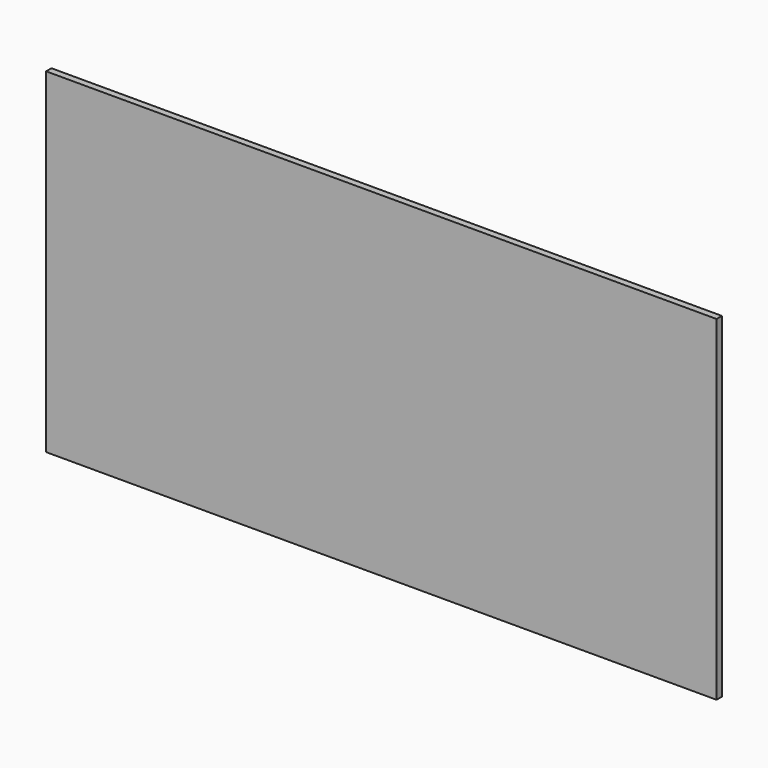
from build123d import *

# Parameters (mm, degrees)
EXTRUDE002_DEPTH       = 0.2
EXTRUDE001_DEPTH       = 0.2
SKETCH012_W            = 16.4
SKETCH012_H            = 7.6
SKETCH012_W_2          = 16
SKETCH012_H_2          = 2.8
SKETCH012_H_3          = 2
EXTRUDE003_DEPTH       = 0.2
SKETCH011_W            = 20
SKETCH011_H            = 10
EXTRUDE_DEPTH          = 0.2
CUT002_PLACEMENT_ANGLE = 180


with BuildPart() as extrude002:
    # Clone2D → Extrude002 (new body)
    with BuildSketch(Plane(origin=(-11, -6.1, -8.6), x_dir=(1, 0, 0), z_dir=(0, -1, 0))):
        with BuildLine():
            add(Edge.make_bspline(
                [(0.242548, 0), (0.242548, 1.589265)],
                knots=[0, 0, 1.589265, 1.589265], degree=1))
            add(Edge.make_bspline(
                [(0.547465, 0), (0.242548, 0)],
                knots=[0, 0, 0.203278, 0.203278], degree=1))
            add(Edge.make_bspline(
                [(0.547465, 1.349028), (0.547465, 0)],
                knots=[0, 0, 1.349028, 1.349028], degree=1))
            add(Edge.make_bspline(
                [(1.236885, 0), (0.547465, 1.349028)],
                knots=[0, 0, 1.425174, 1.425174], degree=1))
            add(Edge.make_bspline(
                [(1.51235, 0), (1.236885, 0)],
                knots=[0, 0, 0.183643, 0.183643], degree=1))
            add(Edge.make_bspline(
                [(2.21758, 1.330548), (1.51235, 0)],
                knots=[0, 0, 1.41117, 1.41117], degree=1))
            add(Edge.make_bspline(
                [(2.21758, 0), (2.21758, 1.330548)],
                knots=[0, 0, 1.330548, 1.330548], degree=1))
            add(Edge.make_bspline(
                [(2.522497, 0), (2.21758, 0)],
                knots=[0, 0, 0.203278, 0.203278], degree=1))
            add(Edge.make_bspline(
                [(2.522497, 1.589265), (2.522497, 0)],
                knots=[0, 0, 1.589265, 1.589265], degree=1))
            add(Edge.make_bspline(
                [(2.110382, 1.589265), (2.522497, 1.589265)],
                knots=[0, 0, 0.274743, 0.274743], degree=1))
            add(Edge.make_bspline(
                [(1.52621, 0.484807), (2.110382, 1.589265)],
                knots=[0, 0, 1.17111, 1.17111], degree=1))
            add(Edge.make_bspline(
                [(1.396382, 0.230348), (1.437962, 0.316972), (1.52621, 0.484807)],
                knots=[0, 0, 0, 1, 1, 1], degree=2))
            add(Edge.make_bspline(
                [(1.282038, 0.465316), (1.360433, 0.30831), (1.396382, 0.230348)],
                knots=[0, 0, 0, 1, 1, 1], degree=2))
            add(Edge.make_bspline(
                [(0.715516, 1.589265), (1.282038, 0.465316)],
                knots=[0, 0, 1.185709, 1.185709], degree=1))
            add(Edge.make_bspline(
                [(0.242548, 1.589265), (0.715516, 1.589265)],
                knots=[0, 0, 0.315312, 0.315312], degree=1))
        make_face()
        with BuildLine():
            add(Edge.make_bspline(
                [(4.144102, 0.619074), (4.144102, 0.808493)],
                knots=[0, 0, 0.189418, 0.189418], degree=1))
            add(Edge.make_bspline(
                [(4.837096, 0.619074), (4.144102, 0.619074)],
                knots=[0, 0, 0.461996, 0.461996], degree=1))
            add(Edge.make_bspline(
                [(4.837096, 0.325274), (4.837096, 0.619074)],
                knots=[0, 0, 0.2938, 0.2938], degree=1))
            add(Edge.make_bspline(
                [(4.543331, 0.21389), (4.737045, 0.266081), (4.837096, 0.325274)],
                knots=[0, 0, 0, 1, 1, 1], degree=2))
            add(Edge.make_bspline(
                [(4.146268, 0.161699), (4.349618, 0.161699), (4.543331, 0.21389)],
                knots=[0, 0, 0, 1, 1, 1], degree=2))
            add(Edge.make_bspline(
                [(3.703943, 0.231142), (3.912166, 0.161699), (4.146268, 0.161699)],
                knots=[0, 0, 0, 1, 1, 1], degree=2))
            add(Edge.make_bspline(
                [(3.38679, 0.443805), (3.49572, 0.300586), (3.703943, 0.231142)],
                knots=[0, 0, 0, 1, 1, 1], degree=2))
            add(Edge.make_bspline(
                [(3.27786, 0.79983), (3.27786, 0.587096), (3.38679, 0.443805)],
                knots=[0, 0, 0, 1, 1, 1], degree=2))
            add(Edge.make_bspline(
                [(3.368274, 1.119907), (3.27786, 0.972357), (3.27786, 0.79983)],
                knots=[0, 0, 0, 1, 1, 1], degree=2))
            add(Edge.make_bspline(
                [(3.517592, 1.277274), (3.421548, 1.205665), (3.368274, 1.119907)],
                knots=[0, 0, 0, 1, 1, 1], degree=2))
            add(Edge.make_bspline(
                [(3.77021, 1.392845), (3.613637, 1.348883), (3.517592, 1.277274)],
                knots=[0, 0, 0, 1, 1, 1], degree=2))
            add(Edge.make_bspline(
                [(4.141395, 1.436807), (3.926783, 1.436807), (3.77021, 1.392845)],
                knots=[0, 0, 0, 1, 1, 1], degree=2))
            add(Edge.make_bspline(
                [(4.467427, 1.394866), (4.320599, 1.436807), (4.141395, 1.436807)],
                knots=[0, 0, 0, 1, 1, 1], degree=2))
            add(Edge.make_bspline(
                [(4.693408, 1.283193), (4.614363, 1.352926), (4.467427, 1.394866)],
                knots=[0, 0, 0, 1, 1, 1], degree=2))
            add(Edge.make_bspline(
                [(4.825834, 1.091898), (4.772561, 1.213533), (4.693408, 1.283193)],
                knots=[0, 0, 0, 1, 1, 1], degree=2))
            add(Edge.make_bspline(
                [(5.112885, 1.143873), (4.825834, 1.091898)],
                knots=[0, 0, 0.1983, 0.1983], degree=1))
            add(Edge.make_bspline(
                [(4.93314, 1.4049), (5.051382, 1.304849), (5.112885, 1.143873)],
                knots=[0, 0, 0, 1, 1, 1], degree=2))
            add(Edge.make_bspline(
                [(4.606675, 1.560968), (4.814898, 1.504951), (4.93314, 1.4049)],
                knots=[0, 0, 0, 1, 1, 1], degree=2))
            add(Edge.make_bspline(
                [(4.14107, 1.616985), (4.398561, 1.616985), (4.606675, 1.560968)],
                knots=[0, 0, 0, 1, 1, 1], degree=2))
            add(Edge.make_bspline(
                [(3.514236, 1.519316), (3.786344, 1.616985), (4.14107, 1.616985)],
                knots=[0, 0, 0, 1, 1, 1], degree=2))
            add(Edge.make_bspline(
                [(3.09714, 1.220463), (3.242127, 1.42172), (3.514236, 1.519316)],
                knots=[0, 0, 0, 1, 1, 1], degree=2))
            add(Edge.make_bspline(
                [(2.952153, 0.787053), (2.952153, 1.019206), (3.09714, 1.220463)],
                knots=[0, 0, 0, 1, 1, 1], degree=2))
            add(Edge.make_bspline(
                [(3.097898, 0.362811), (2.952153, 0.552735), (2.952153, 0.787053)],
                knots=[0, 0, 0, 1, 1, 1], degree=2))
            add(Edge.make_bspline(
                [(3.52972, 0.07262), (3.243752, 0.17296), (3.097898, 0.362811)],
                knots=[0, 0, 0, 1, 1, 1], degree=2))
            add(Edge.make_bspline(
                [(4.165541, -0.02772), (3.815688, -0.02772), (3.52972, 0.07262)],
                knots=[0, 0, 0, 1, 1, 1], degree=2))
            add(Edge.make_bspline(
                [(4.670994, 0.034433), (4.424764, -0.02772), (4.165541, -0.02772)],
                knots=[0, 0, 0, 1, 1, 1], degree=2))
            add(Edge.make_bspline(
                [(5.148943, 0.220025), (4.917223, 0.096658), (4.670994, 0.034433)],
                knots=[0, 0, 0, 1, 1, 1], degree=2))
            add(Edge.make_bspline(
                [(5.148943, 0.808493), (5.148943, 0.220025)],
                knots=[0, 0, 0.588467, 0.588467], degree=1))
            add(Edge.make_bspline(
                [(4.144102, 0.808493), (5.148943, 0.808493)],
                knots=[0, 0, 0.669894, 0.669894], degree=1))
        make_face()
        with BuildLine():
            add(Edge.make_bspline(
                [(5.537019, 0.364977), (5.821146, 0.378837)],
                knots=[0, 0, 0.189925, 0.189925], degree=1))
            add(Edge.make_bspline(
                [(5.74914, 0.075291), (5.572643, 0.178374), (5.537019, 0.364977)],
                knots=[0, 0, 0, 1, 1, 1], degree=2))
            add(Edge.make_bspline(
                [(6.20435, -0.02772), (5.925745, -0.02772), (5.74914, 0.075291)],
                knots=[0, 0, 0, 1, 1, 1], degree=2))
            add(Edge.make_bspline(
                [(6.661834, 0.066773), (6.466713, -0.02772), (6.20435, -0.02772)],
                knots=[0, 0, 0, 1, 1, 1], degree=2))
            add(Edge.make_bspline(
                [(6.955815, 0.342166), (6.857064, 0.161265), (6.661834, 0.066773)],
                knots=[0, 0, 0, 1, 1, 1], degree=2))
            add(Edge.make_bspline(
                [(7.054675, 0.828272), (7.054675, 0.523066), (6.955815, 0.342166)],
                knots=[0, 0, 0, 1, 1, 1], degree=2))
            add(Edge.make_bspline(
                [(6.955166, 1.276408), (7.054675, 1.121639), (7.054675, 0.828272)],
                knots=[0, 0, 0, 1, 1, 1], degree=2))
            add(Edge.make_bspline(
                [(6.664, 1.514841), (6.855764, 1.431176), (6.955166, 1.276408)],
                knots=[0, 0, 0, 1, 1, 1], degree=2))
            add(Edge.make_bspline(
                [(6.241057, 1.598505), (6.472344, 1.598505), (6.664, 1.514841)],
                knots=[0, 0, 0, 1, 1, 1], degree=2))
            add(Edge.make_bspline(
                [(5.708102, 1.450883), (5.920873, 1.598505), (6.241057, 1.598505)],
                knots=[0, 0, 0, 1, 1, 1], degree=2))
            add(Edge.make_bspline(
                [(5.495439, 1.061363), (5.495439, 1.303333), (5.708102, 1.450883)],
                knots=[0, 0, 0, 1, 1, 1], degree=2))
            add(Edge.make_bspline(
                [(5.69814, 0.683754), (5.495439, 0.826972), (5.495439, 1.061363)],
                knots=[0, 0, 0, 1, 1, 1], degree=2))
            add(Edge.make_bspline(
                [(6.193631, 0.540535), (5.900841, 0.540535), (5.69814, 0.683754)],
                knots=[0, 0, 0, 1, 1, 1], degree=2))
            add(Edge.make_bspline(
                [(6.519338, 0.598429), (6.368936, 0.540535), (6.193631, 0.540535)],
                knots=[0, 0, 0, 1, 1, 1], degree=2))
            add(Edge.make_bspline(
                [(6.756688, 0.749516), (6.669847, 0.656395), (6.519338, 0.598429)],
                knots=[0, 0, 0, 1, 1, 1], degree=2))
            add(Edge.make_bspline(
                [(6.758312, 0.710535), (6.758312, 0.723529), (6.756688, 0.749516)],
                knots=[0, 0, 0, 1, 1, 1], degree=2))
            add(Edge.make_bspline(
                [(6.715, 0.471958), (6.758312, 0.589261), (6.758312, 0.710535)],
                knots=[0, 0, 0, 1, 1, 1], degree=2))
            add(Edge.make_bspline(
                [(6.609427, 0.285571), (6.671796, 0.354654), (6.715, 0.471958)],
                knots=[0, 0, 0, 1, 1, 1], degree=2))
            add(Edge.make_bspline(
                [(6.445166, 0.17527), (6.547057, 0.216561), (6.609427, 0.285571)],
                knots=[0, 0, 0, 1, 1, 1], degree=2))
            add(Edge.make_bspline(
                [(6.210414, 0.133979), (6.343382, 0.133979), (6.445166, 0.17527)],
                knots=[0, 0, 0, 1, 1, 1], degree=2))
            add(Edge.make_bspline(
                [(5.955631, 0.192017), (6.055032, 0.133979), (6.210414, 0.133979)],
                knots=[0, 0, 0, 1, 1, 1], degree=2))
            add(Edge.make_bspline(
                [(5.821146, 0.378837), (5.856338, 0.250055), (5.955631, 0.192017)],
                knots=[0, 0, 0, 1, 1, 1], degree=2))
        make_face()
        with BuildLine():
            add(Edge.make_bspline(
                [(6.728968, 1.070314), (6.728968, 1.23887), (6.597408, 1.337839)],
                knots=[0, 0, 0, 1, 1, 1], degree=2))
            add(Edge.make_bspline(
                [(6.598924, 0.806616), (6.728968, 0.901758), (6.728968, 1.070314)],
                knots=[0, 0, 0, 1, 1, 1], degree=2))
            add(Edge.make_bspline(
                [(6.266828, 0.711473), (6.468879, 0.711473), (6.598924, 0.806616)],
                knots=[0, 0, 0, 1, 1, 1], degree=2))
            add(Edge.make_bspline(
                [(5.928236, 0.806616), (6.063045, 0.711473), (6.266828, 0.711473)],
                knots=[0, 0, 0, 1, 1, 1], degree=2))
            add(Edge.make_bspline(
                [(5.793427, 1.054), (5.793427, 0.901758), (5.928236, 0.806616)],
                knots=[0, 0, 0, 1, 1, 1], degree=2))
            add(Edge.make_bspline(
                [(5.93549, 1.330187), (5.793427, 1.223639), (5.793427, 1.054)],
                knots=[0, 0, 0, 1, 1, 1], degree=2))
            add(Edge.make_bspline(
                [(6.274949, 1.436807), (6.077554, 1.436807), (5.93549, 1.330187)],
                knots=[0, 0, 0, 1, 1, 1], degree=2))
            add(Edge.make_bspline(
                [(6.597408, 1.337839), (6.465847, 1.436807), (6.274949, 1.436807)],
                knots=[0, 0, 0, 1, 1, 1], degree=2))
        make_face(mode=Mode.SUBTRACT)
        with BuildLine():
            add(Edge.make_bspline(
                [(7.345732, 0.784815), (7.345732, 1.067282), (7.433006, 1.240603)],
                knots=[0, 0, 0, 1, 1, 1], degree=2))
            add(Edge.make_bspline(
                [(7.582217, 0.135062), (7.345732, 0.336174), (7.345732, 0.784815)],
                knots=[0, 0, 0, 1, 1, 1], degree=2))
            add(Edge.make_bspline(
                [(8.12535, -0.02772), (7.779611, -0.02772), (7.582217, 0.135062)],
                knots=[0, 0, 0, 1, 1, 1], degree=2))
            add(Edge.make_bspline(
                [(8.559987, 0.06504), (8.38793, -0.02772), (8.12535, -0.02772)],
                knots=[0, 0, 0, 1, 1, 1], degree=2))
            add(Edge.make_bspline(
                [(8.818452, 0.331193), (8.732045, 0.157873), (8.559987, 0.06504)],
                knots=[0, 0, 0, 1, 1, 1], degree=2))
            add(Edge.make_bspline(
                [(8.904968, 0.784815), (8.904968, 0.504586), (8.818452, 0.331193)],
                knots=[0, 0, 0, 1, 1, 1], degree=2))
            add(Edge.make_bspline(
                [(8.851153, 1.16127), (8.904968, 1.02166), (8.904968, 0.784815)],
                knots=[0, 0, 0, 1, 1, 1], degree=2))
            add(Edge.make_bspline(
                [(8.704433, 1.398042), (8.797338, 1.300879), (8.851153, 1.16127)],
                knots=[0, 0, 0, 1, 1, 1], degree=2))
            add(Edge.make_bspline(
                [(8.464701, 1.546892), (8.611637, 1.495278), (8.704433, 1.398042)],
                knots=[0, 0, 0, 1, 1, 1], degree=2))
            add(Edge.make_bspline(
                [(8.12535, 1.598505), (8.317764, 1.598505), (8.464701, 1.546892)],
                knots=[0, 0, 0, 1, 1, 1], degree=2))
            add(Edge.make_bspline(
                [(7.692338, 1.506251), (7.864395, 1.598505), (8.12535, 1.598505)],
                knots=[0, 0, 0, 1, 1, 1], degree=2))
            add(Edge.make_bspline(
                [(7.433006, 1.240603), (7.52028, 1.413996), (7.692338, 1.506251)],
                knots=[0, 0, 0, 1, 1, 1], degree=2))
        make_face()
        with BuildLine():
            add(Edge.make_bspline(
                [(7.64372, 0.785393), (7.64372, 0.39118), (7.782643, 0.262544)],
                knots=[0, 0, 0, 1, 1, 1], degree=2))
            add(Edge.make_bspline(
                [(7.794879, 1.322824), (7.64372, 1.177295), (7.64372, 0.785393)],
                knots=[0, 0, 0, 1, 1, 1], degree=2))
            add(Edge.make_bspline(
                [(8.122102, 1.436807), (7.91821, 1.436807), (7.794879, 1.322824)],
                knots=[0, 0, 0, 1, 1, 1], degree=2))
            add(Edge.make_bspline(
                [(8.468924, 1.307592), (8.330866, 1.436807), (8.122102, 1.436807)],
                knots=[0, 0, 0, 1, 1, 1], degree=2))
            add(Edge.make_bspline(
                [(8.606981, 0.785393), (8.606981, 1.178378), (8.468924, 1.307592)],
                knots=[0, 0, 0, 1, 1, 1], degree=2))
            add(Edge.make_bspline(
                [(8.468057, 0.263121), (8.606981, 0.392263), (8.606981, 0.785393)],
                knots=[0, 0, 0, 1, 1, 1], degree=2))
            add(Edge.make_bspline(
                [(8.12535, 0.133979), (8.329134, 0.133979), (8.468057, 0.263121)],
                knots=[0, 0, 0, 1, 1, 1], degree=2))
            add(Edge.make_bspline(
                [(7.782643, 0.262544), (7.921567, 0.133979), (8.12535, 0.133979)],
                knots=[0, 0, 0, 1, 1, 1], degree=2))
        make_face(mode=Mode.SUBTRACT)
        with BuildLine():
            add(Edge.make_bspline(
                [(9.209885, 0.508195), (9.507873, 0.526675)],
                knots=[0, 0, 0.199516, 0.199516], degree=1))
            add(Edge.make_bspline(
                [(9.33993, 0.22349), (9.216382, 0.349384), (9.209885, 0.508195)],
                knots=[0, 0, 0, 1, 1, 1], degree=2))
            add(Edge.make_bspline(
                [(9.680688, 0.034938), (9.463478, 0.097597), (9.33993, 0.22349)],
                knots=[0, 0, 0, 1, 1, 1], degree=2))
            add(Edge.make_bspline(
                [(10.219382, -0.02772), (9.898006, -0.02772), (9.680688, 0.034938)],
                knots=[0, 0, 0, 1, 1, 1], degree=2))
            add(Edge.make_bspline(
                [(10.675675, 0.034505), (10.472975, -0.02772), (10.219382, -0.02772)],
                knots=[0, 0, 0, 1, 1, 1], degree=2))
            add(Edge.make_bspline(
                [(10.986548, 0.208837), (10.878376, 0.096803), (10.675675, 0.034505)],
                knots=[0, 0, 0, 1, 1, 1], degree=2))
            add(Edge.make_bspline(
                [(11.094828, 0.447558), (11.094828, 0.32087), (10.986548, 0.208837)],
                knots=[0, 0, 0, 1, 1, 1], degree=2))
            add(Edge.make_bspline(
                [(10.995968, 0.673287), (11.094828, 0.575329), (11.094828, 0.447558)],
                knots=[0, 0, 0, 1, 1, 1], degree=2))
            add(Edge.make_bspline(
                [(10.689535, 0.83513), (10.897108, 0.771244), (10.995968, 0.673287)],
                knots=[0, 0, 0, 1, 1, 1], degree=2))
            add(Edge.make_bspline(
                [(10.166758, 0.936263), (10.54693, 0.878442), (10.689535, 0.83513)],
                knots=[0, 0, 0, 1, 1, 1], degree=2))
            add(Edge.make_bspline(
                [(9.696497, 1.049163), (9.786586, 0.994085), (10.166758, 0.936263)],
                knots=[0, 0, 0, 1, 1, 1], degree=2))
            add(Edge.make_bspline(
                [(9.604892, 1.189711), (9.604892, 1.104314), (9.696497, 1.049163)],
                knots=[0, 0, 0, 1, 1, 1], degree=2))
            add(Edge.make_bspline(
                [(9.734287, 1.357834), (9.604892, 1.288102), (9.604892, 1.189711)],
                knots=[0, 0, 0, 1, 1, 1], degree=2))
            add(Edge.make_bspline(
                [(10.146726, 1.427567), (9.863682, 1.427567), (9.734287, 1.357834)],
                knots=[0, 0, 0, 1, 1, 1], degree=2))
            add(Edge.make_bspline(
                [(10.557433, 1.351699), (10.418401, 1.427567), (10.146726, 1.427567)],
                knots=[0, 0, 0, 1, 1, 1], degree=2))
            add(Edge.make_bspline(
                [(10.720611, 1.12727), (10.696465, 1.27583), (10.557433, 1.351699)],
                knots=[0, 0, 0, 1, 1, 1], degree=2))
            add(Edge.make_bspline(
                [(11.025529, 1.14113), (10.720611, 1.12727)],
                knots=[0, 0, 0.20375, 0.20375], degree=1))
            add(Edge.make_bspline(
                [(10.909019, 1.392051), (11.017408, 1.281244), (11.025529, 1.14113)],
                knots=[0, 0, 0, 1, 1, 1], degree=2))
            add(Edge.make_bspline(
                [(10.599338, 1.559958), (10.800739, 1.50293), (10.909019, 1.392051)],
                knots=[0, 0, 0, 1, 1, 1], degree=2))
            add(Edge.make_bspline(
                [(10.13449, 1.616985), (10.398045, 1.616985), (10.599338, 1.559958)],
                knots=[0, 0, 0, 1, 1, 1], degree=2))
            add(Edge.make_bspline(
                [(9.69942, 1.562628), (9.895083, 1.616985), (10.13449, 1.616985)],
                knots=[0, 0, 0, 1, 1, 1], degree=2))
            add(Edge.make_bspline(
                [(9.401866, 1.403384), (9.503758, 1.508272), (9.69942, 1.562628)],
                knots=[0, 0, 0, 1, 1, 1], degree=2))
            add(Edge.make_bspline(
                [(9.299975, 1.177873), (9.299975, 1.298497), (9.401866, 1.403384)],
                knots=[0, 0, 0, 1, 1, 1], degree=2))
            add(Edge.make_bspline(
                [(9.383459, 0.979503), (9.299975, 1.068076), (9.299975, 1.177873)],
                knots=[0, 0, 0, 1, 1, 1], degree=2))
            add(Edge.make_bspline(
                [(9.637376, 0.831087), (9.467051, 0.89093), (9.383459, 0.979503)],
                knots=[0, 0, 0, 1, 1, 1], degree=2))
            add(Edge.make_bspline(
                [(10.093561, 0.731902), (9.768828, 0.784382), (9.637376, 0.831087)],
                knots=[0, 0, 0, 1, 1, 1], degree=2))
            add(Edge.make_bspline(
                [(10.513255, 0.654662), (10.418401, 0.679495), (10.093561, 0.731902)],
                knots=[0, 0, 0, 1, 1, 1], degree=2))
            add(Edge.make_bspline(
                [(10.725484, 0.561108), (10.661166, 0.616837), (10.513255, 0.654662)],
                knots=[0, 0, 0, 1, 1, 1], degree=2))
            add(Edge.make_bspline(
                [(10.789911, 0.430739), (10.789911, 0.50538), (10.725484, 0.561108)],
                knots=[0, 0, 0, 1, 1, 1], degree=2))
            add(Edge.make_bspline(
                [(10.723102, 0.295028), (10.789911, 0.35718), (10.789911, 0.430739)],
                knots=[0, 0, 0, 1, 1, 1], degree=2))
            add(Edge.make_bspline(
                [(10.519643, 0.197287), (10.656401, 0.232947), (10.723102, 0.295028)],
                knots=[0, 0, 0, 1, 1, 1], degree=2))
            add(Edge.make_bspline(
                [(10.204439, 0.161699), (10.382994, 0.161699), (10.519643, 0.197287)],
                knots=[0, 0, 0, 1, 1, 1], degree=2))
            add(Edge.make_bspline(
                [(9.842459, 0.20862), (10.003363, 0.161699), (10.204439, 0.161699)],
                knots=[0, 0, 0, 1, 1, 1], degree=2))
            add(Edge.make_bspline(
                [(9.605108, 0.331771), (9.681554, 0.255614), (9.842459, 0.20862)],
                knots=[0, 0, 0, 1, 1, 1], degree=2))
            add(Edge.make_bspline(
                [(9.507873, 0.526675), (9.528771, 0.407928), (9.605108, 0.331771)],
                knots=[0, 0, 0, 1, 1, 1], degree=2))
        make_face()
    extrude(amount=EXTRUDE002_DEPTH)


with BuildPart() as extrude002_1:
    # Extrude002 placement: moved
    add(extrude002.part.moved(Location((0, 0, -0.4))))


with BuildPart() as compound:
    # Clone2D001 → Extrude001 (new body)
    with BuildSketch(Plane(origin=(-11.64, -6.1, -11.2), x_dir=(1, 0, 0), z_dir=(0, -1, 0))):
        with BuildLine():
            add(Edge.make_bspline(
                [(0.17121, 0), (0.17121, 0.934862)],
                knots=[0, 0, 0.934862, 0.934862], degree=1))
            add(Edge.make_bspline(
                [(0.386446, 0), (0.17121, 0)],
                knots=[0, 0, 0.119575, 0.119575], degree=1))
            add(Edge.make_bspline(
                [(0.386446, 0.793546), (0.386446, 0)],
                knots=[0, 0, 0.793546, 0.793546], degree=1))
            add(Edge.make_bspline(
                [(0.873096, 0), (0.386446, 0.793546)],
                knots=[0, 0, 0.838337, 0.838337], degree=1))
            add(Edge.make_bspline(
                [(1.067541, 0), (0.873096, 0)],
                knots=[0, 0, 0.108025, 0.108025], degree=1))
            add(Edge.make_bspline(
                [(1.56535, 0.782675), (1.067541, 0)],
                knots=[0, 0, 0.8301, 0.8301], degree=1))
            add(Edge.make_bspline(
                [(1.56535, 0), (1.56535, 0.782675)],
                knots=[0, 0, 0.782675, 0.782675], degree=1))
            add(Edge.make_bspline(
                [(1.780586, 0), (1.56535, 0)],
                knots=[0, 0, 0.119575, 0.119575], degree=1))
            add(Edge.make_bspline(
                [(1.780586, 0.934862), (1.780586, 0)],
                knots=[0, 0, 0.934862, 0.934862], degree=1))
            add(Edge.make_bspline(
                [(1.489682, 0.934862), (1.780586, 0.934862)],
                knots=[0, 0, 0.161614, 0.161614], degree=1))
            add(Edge.make_bspline(
                [(1.077325, 0.28518), (1.489682, 0.934862)],
                knots=[0, 0, 0.688888, 0.688888], degree=1))
            add(Edge.make_bspline(
                [(0.985682, 0.135499), (1.015032, 0.186454), (1.077325, 0.28518)],
                knots=[0, 0, 0, 1, 1, 1], degree=2))
            add(Edge.make_bspline(
                [(0.904968, 0.273715), (0.960306, 0.181359), (0.985682, 0.135499)],
                knots=[0, 0, 0, 1, 1, 1], degree=2))
            add(Edge.make_bspline(
                [(0.50507, 0.934862), (0.904968, 0.273715)],
                knots=[0, 0, 0.697476, 0.697476], degree=1))
            add(Edge.make_bspline(
                [(0.17121, 0.934862), (0.50507, 0.934862)],
                knots=[0, 0, 0.185478, 0.185478], degree=1))
        make_face()
        with BuildLine():
            add(Edge.make_bspline(
                [(2.118115, 0), (2.118115, 0.676688)],
                knots=[0, 0, 0.676688, 0.676688], degree=1))
            add(Edge.make_bspline(
                [(2.323567, 0), (2.118115, 0)],
                knots=[0, 0, 0.11414, 0.11414], degree=1))
            add(Edge.make_bspline(
                [(2.323567, 0.676688), (2.323567, 0)],
                knots=[0, 0, 0.676688, 0.676688], degree=1))
            add(Edge.make_bspline(
                [(2.118115, 0.676688), (2.323567, 0.676688)],
                knots=[0, 0, 0.11414, 0.11414], degree=1))
        make_face()
        with BuildLine():
            add(Edge.make_bspline(
                [(2.118115, 0.804416), (2.118115, 0.934862)],
                knots=[0, 0, 0.130446, 0.130446], degree=1))
            add(Edge.make_bspline(
                [(2.323567, 0.804416), (2.118115, 0.804416)],
                knots=[0, 0, 0.11414, 0.11414], degree=1))
            add(Edge.make_bspline(
                [(2.323567, 0.934862), (2.323567, 0.804416)],
                knots=[0, 0, 0.130446, 0.130446], degree=1))
            add(Edge.make_bspline(
                [(2.118115, 0.934862), (2.323567, 0.934862)],
                knots=[0, 0, 0.11414, 0.11414], degree=1))
        make_face()
        with BuildLine():
            add(Edge.make_bspline(
                [(3.433987, 0.247304), (3.634548, 0.230998)],
                knots=[0, 0, 0.112609, 0.112609], degree=1))
            add(Edge.make_bspline(
                [(3.329962, 0.122166), (3.412051, 0.162845), (3.433987, 0.247304)],
                knots=[0, 0, 0, 1, 1, 1], degree=2))
            add(Edge.make_bspline(
                [(3.125427, 0.081529), (3.247949, 0.081529), (3.329962, 0.122166)],
                knots=[0, 0, 0, 1, 1, 1], degree=2))
            add(Edge.make_bspline(
                [(2.878166, 0.142718), (2.972943, 0.081529), (3.125427, 0.081529)],
                knots=[0, 0, 0, 1, 1, 1], degree=2))
            add(Edge.make_bspline(
                [(2.783389, 0.338981), (2.783389, 0.203949), (2.878166, 0.142718)],
                knots=[0, 0, 0, 1, 1, 1], degree=2))
            add(Edge.make_bspline(
                [(2.881223, 0.533631), (2.783389, 0.472102), (2.783389, 0.338981)],
                knots=[0, 0, 0, 1, 1, 1], degree=2))
            add(Edge.make_bspline(
                [(3.135745, 0.595159), (2.979134, 0.595159), (2.881223, 0.533631)],
                knots=[0, 0, 0, 1, 1, 1], degree=2))
            add(Edge.make_bspline(
                [(3.312459, 0.561019), (3.239389, 0.595159), (3.135745, 0.595159)],
                knots=[0, 0, 0, 1, 1, 1], degree=2))
            add(Edge.make_bspline(
                [(3.41442, 0.459278), (3.385605, 0.526921), (3.312459, 0.561019)],
                knots=[0, 0, 0, 1, 1, 1], degree=2))
            add(Edge.make_bspline(
                [(3.614981, 0.475584), (3.41442, 0.459278)],
                knots=[0, 0, 0.112609, 0.112609], degree=1))
            add(Edge.make_bspline(
                [(3.453172, 0.634352), (3.579439, 0.578471), (3.614981, 0.475584)],
                knots=[0, 0, 0, 1, 1, 1], degree=2))
            add(Edge.make_bspline(
                [(3.128408, 0.690276), (3.326981, 0.690276), (3.453172, 0.634352)],
                knots=[0, 0, 0, 1, 1, 1], degree=2))
            add(Edge.make_bspline(
                [(2.83758, 0.649384), (2.971261, 0.690276), (3.128408, 0.690276)],
                knots=[0, 0, 0, 1, 1, 1], degree=2))
            add(Edge.make_bspline(
                [(2.638471, 0.526667), (2.703898, 0.608493), (2.83758, 0.649384)],
                knots=[0, 0, 0, 1, 1, 1], degree=2))
            add(Edge.make_bspline(
                [(2.573045, 0.335796), (2.573045, 0.444883), (2.638471, 0.526667)],
                knots=[0, 0, 0, 1, 1, 1], degree=2))
            add(Edge.make_bspline(
                [(2.72507, 0.076773), (2.573045, 0.167134), (2.573045, 0.335796)],
                knots=[0, 0, 0, 1, 1, 1], degree=2))
            add(Edge.make_bspline(
                [(3.127338, -0.013588), (2.877172, -0.013588), (2.72507, 0.076773)],
                knots=[0, 0, 0, 1, 1, 1], degree=2))
            add(Edge.make_bspline(
                [(3.464102, 0.051295), (3.326981, -0.013588), (3.127338, -0.013588)],
                knots=[0, 0, 0, 1, 1, 1], degree=2))
            add(Edge.make_bspline(
                [(3.634548, 0.230998), (3.601299, 0.116221), (3.464102, 0.051295)],
                knots=[0, 0, 0, 1, 1, 1], degree=2))
        make_face()
        with BuildLine():
            add(Edge.make_bspline(
                [(3.805758, 0), (3.805758, 0.676688)],
                knots=[0, 0, 0.676688, 0.676688], degree=1))
            add(Edge.make_bspline(
                [(4.01121, 0), (3.805758, 0)],
                knots=[0, 0, 0.11414, 0.11414], degree=1))
            add(Edge.make_bspline(
                [(4.01121, 0.352569), (4.01121, 0)],
                knots=[0, 0, 0.352569, 0.352569], degree=1))
            add(Edge.make_bspline(
                [(4.045758, 0.485732), (4.01121, 0.424883), (4.01121, 0.352569)],
                knots=[0, 0, 0, 1, 1, 1], degree=2))
            add(Edge.make_bspline(
                [(4.122268, 0.548195), (4.068841, 0.52569), (4.045758, 0.485732)],
                knots=[0, 0, 0, 1, 1, 1], degree=2))
            add(Edge.make_bspline(
                [(4.242803, 0.570701), (4.175694, 0.570701), (4.122268, 0.548195)],
                knots=[0, 0, 0, 1, 1, 1], degree=2))
            add(Edge.make_bspline(
                [(4.392841, 0.549087), (4.317783, 0.570701), (4.242803, 0.570701)],
                knots=[0, 0, 0, 1, 1, 1], degree=2))
            add(Edge.make_bspline(
                [(4.46614, 0.654437), (4.392841, 0.549087)],
                knots=[0, 0, 0.112947, 0.112947], degree=1))
            add(Edge.make_bspline(
                [(4.25465, 0.690276), (4.358675, 0.690276), (4.46614, 0.654437)],
                knots=[0, 0, 0, 1, 1, 1], degree=2))
            add(Edge.make_bspline(
                [(4.122497, 0.667134), (4.182573, 0.690276), (4.25465, 0.690276)],
                knots=[0, 0, 0, 1, 1, 1], degree=2))
            add(Edge.make_bspline(
                [(3.991643, 0.571338), (4.062497, 0.643992), (4.122497, 0.667134)],
                knots=[0, 0, 0, 1, 1, 1], degree=2))
            add(Edge.make_bspline(
                [(3.991643, 0.676688), (3.991643, 0.571338)],
                knots=[0, 0, 0.10535, 0.10535], degree=1))
            add(Edge.make_bspline(
                [(3.805758, 0.676688), (3.991643, 0.676688)],
                knots=[0, 0, 0.10327, 0.10327], degree=1))
        make_face()
        with BuildLine():
            add(Edge.make_bspline(
                [(4.515057, 0.338344), (4.515057, 0.525393), (4.70293, 0.615456)],
                knots=[0, 0, 0, 1, 1, 1], degree=2))
            add(Edge.make_bspline(
                [(4.67251, 0.07707), (4.515057, 0.167771), (4.515057, 0.338344)],
                knots=[0, 0, 0, 1, 1, 1], degree=2))
            add(Edge.make_bspline(
                [(5.085478, -0.013588), (4.830038, -0.013588), (4.67251, 0.07707)],
                knots=[0, 0, 0, 1, 1, 1], degree=2))
            add(Edge.make_bspline(
                [(5.379363, 0.027601), (5.244764, -0.013588), (5.085478, -0.013588)],
                knots=[0, 0, 0, 1, 1, 1], degree=2))
            add(Edge.make_bspline(
                [(5.584357, 0.143355), (5.513962, 0.068832), (5.379363, 0.027601)],
                knots=[0, 0, 0, 1, 1, 1], degree=2))
            add(Edge.make_bspline(
                [(5.654828, 0.347856), (5.654828, 0.217877), (5.584357, 0.143355)],
                knots=[0, 0, 0, 1, 1, 1], degree=2))
            add(Edge.make_bspline(
                [(5.495618, 0.599278), (5.654828, 0.50828), (5.654828, 0.347856)],
                knots=[0, 0, 0, 1, 1, 1], degree=2))
            add(Edge.make_bspline(
                [(5.085478, 0.690276), (5.336408, 0.690276), (5.495618, 0.599278)],
                knots=[0, 0, 0, 1, 1, 1], degree=2))
            add(Edge.make_bspline(
                [(4.70293, 0.615456), (4.859847, 0.690276), (5.085478, 0.690276)],
                knots=[0, 0, 0, 1, 1, 1], degree=2))
        make_face()
        with BuildLine():
            add(Edge.make_bspline(
                [(4.725401, 0.338641), (4.725401, 0.209766), (4.827745, 0.145648)],
                knots=[0, 0, 0, 1, 1, 1], degree=2))
            add(Edge.make_bspline(
                [(4.827745, 0.531338), (4.725401, 0.467558), (4.725401, 0.338641)],
                knots=[0, 0, 0, 1, 1, 1], degree=2))
            add(Edge.make_bspline(
                [(5.085554, 0.595159), (4.930166, 0.595159), (4.827745, 0.531338)],
                knots=[0, 0, 0, 1, 1, 1], degree=2))
            add(Edge.make_bspline(
                [(5.341529, 0.53104), (5.238573, 0.595159), (5.085554, 0.595159)],
                knots=[0, 0, 0, 1, 1, 1], degree=2))
            add(Edge.make_bspline(
                [(5.444484, 0.342463), (5.444484, 0.466921), (5.341529, 0.53104)],
                knots=[0, 0, 0, 1, 1, 1], degree=2))
            add(Edge.make_bspline(
                [(5.342064, 0.145945), (5.444484, 0.210403), (5.444484, 0.342463)],
                knots=[0, 0, 0, 1, 1, 1], degree=2))
            add(Edge.make_bspline(
                [(5.085554, 0.081529), (5.23972, 0.081529), (5.342064, 0.145945)],
                knots=[0, 0, 0, 1, 1, 1], degree=2))
            add(Edge.make_bspline(
                [(4.827745, 0.145648), (4.930166, 0.081529), (5.085554, 0.081529)],
                knots=[0, 0, 0, 1, 1, 1], degree=2))
        make_face(mode=Mode.SUBTRACT)
        with BuildLine():
            add(Edge.make_bspline(
                [(6.471745, 0.203822), (6.677197, 0.220127)],
                knots=[0, 0, 0.115299, 0.115299], degree=1))
            add(Edge.make_bspline(
                [(6.629962, 0.041231), (6.505987, 0.096093), (6.471745, 0.203822)],
                knots=[0, 0, 0, 1, 1, 1], degree=2))
            add(Edge.make_bspline(
                [(6.99042, -0.013588), (6.753936, -0.013588), (6.629962, 0.041231)],
                knots=[0, 0, 0, 1, 1, 1], degree=2))
            add(Edge.make_bspline(
                [(7.246318, 0.014013), (7.133274, -0.013588), (6.99042, -0.013588)],
                knots=[0, 0, 0, 1, 1, 1], degree=2))
            add(Edge.make_bspline(
                [(7.419439, 0.092144), (7.359439, 0.041656), (7.246318, 0.014013)],
                knots=[0, 0, 0, 1, 1, 1], degree=2))
            add(Edge.make_bspline(
                [(7.479439, 0.199745), (7.479439, 0.142633), (7.419439, 0.092144)],
                knots=[0, 0, 0, 1, 1, 1], degree=2))
            add(Edge.make_bspline(
                [(7.430675, 0.297537), (7.479439, 0.258174), (7.479439, 0.199745)],
                knots=[0, 0, 0, 1, 1, 1], degree=2))
            add(Edge.make_bspline(
                [(7.296382, 0.357537), (7.381987, 0.3369), (7.430675, 0.297537)],
                knots=[0, 0, 0, 1, 1, 1], degree=2))
            add(Edge.make_bspline(
                [(6.992408, 0.410573), (7.210854, 0.378174), (7.296382, 0.357537)],
                knots=[0, 0, 0, 1, 1, 1], degree=2))
            add(Edge.make_bspline(
                [(6.810573, 0.439448), (6.841452, 0.433163), (6.992408, 0.410573)],
                knots=[0, 0, 0, 1, 1, 1], degree=2))
            add(Edge.make_bspline(
                [(6.731694, 0.469597), (6.756841, 0.45138), (6.810573, 0.439448)],
                knots=[0, 0, 0, 1, 1, 1], degree=2))
            add(Edge.make_bspline(
                [(6.706548, 0.50913), (6.706548, 0.487176), (6.731694, 0.469597)],
                knots=[0, 0, 0, 1, 1, 1], degree=2))
            add(Edge.make_bspline(
                [(6.767159, 0.569427), (6.706548, 0.543694), (6.706548, 0.50913)],
                knots=[0, 0, 0, 1, 1, 1], degree=2))
            add(Edge.make_bspline(
                [(6.969554, 0.595159), (6.827771, 0.595159), (6.767159, 0.569427)],
                knots=[0, 0, 0, 1, 1, 1], degree=2))
            add(Edge.make_bspline(
                [(7.155363, 0.56569), (7.089631, 0.595159), (6.969554, 0.595159)],
                knots=[0, 0, 0, 1, 1, 1], degree=2))
            add(Edge.make_bspline(
                [(7.234854, 0.483737), (7.221096, 0.536263), (7.155363, 0.56569)],
                knots=[0, 0, 0, 1, 1, 1], degree=2))
            add(Edge.make_bspline(
                [(7.435414, 0.500042), (7.234854, 0.483737)],
                knots=[0, 0, 0.112609, 0.112609], degree=1))
            add(Edge.make_bspline(
                [(7.364408, 0.605053), (7.415924, 0.565775), (7.435414, 0.500042)],
                knots=[0, 0, 0, 1, 1, 1], degree=2))
            add(Edge.make_bspline(
                [(7.204739, 0.667304), (7.312968, 0.644331), (7.364408, 0.605053)],
                knots=[0, 0, 0, 1, 1, 1], degree=2))
            add(Edge.make_bspline(
                [(6.953503, 0.690276), (7.096586, 0.690276), (7.204739, 0.667304)],
                knots=[0, 0, 0, 1, 1, 1], degree=2))
            add(Edge.make_bspline(
                [(6.77549, 0.676603), (6.858497, 0.690276), (6.953503, 0.690276)],
                knots=[0, 0, 0, 1, 1, 1], degree=2))
            add(Edge.make_bspline(
                [(6.644484, 0.64327), (6.692561, 0.662972), (6.77549, 0.676603)],
                knots=[0, 0, 0, 1, 1, 1], degree=2))
            add(Edge.make_bspline(
                [(6.543134, 0.579448), (6.580357, 0.617877), (6.644484, 0.64327)],
                knots=[0, 0, 0, 1, 1, 1], degree=2))
            add(Edge.make_bspline(
                [(6.505987, 0.495924), (6.505987, 0.541019), (6.543134, 0.579448)],
                knots=[0, 0, 0, 1, 1, 1], degree=2))
            add(Edge.make_bspline(
                [(6.551389, 0.405435), (6.505987, 0.446412), (6.505987, 0.495924)],
                knots=[0, 0, 0, 1, 1, 1], degree=2))
            add(Edge.make_bspline(
                [(6.684841, 0.341316), (6.596866, 0.364501), (6.551389, 0.405435)],
                knots=[0, 0, 0, 1, 1, 1], degree=2))
            add(Edge.make_bspline(
                [(6.999287, 0.286369), (6.772892, 0.318132), (6.684841, 0.341316)],
                knots=[0, 0, 0, 1, 1, 1], degree=2))
            add(Edge.make_bspline(
                [(7.209172, 0.248025), (7.167363, 0.2631), (6.999287, 0.286369)],
                knots=[0, 0, 0, 1, 1, 1], degree=2))
            add(Edge.make_bspline(
                [(7.269096, 0.187728), (7.269096, 0.22603), (7.209172, 0.248025)],
                knots=[0, 0, 0, 1, 1, 1], degree=2))
            add(Edge.make_bspline(
                [(7.200611, 0.113248), (7.269096, 0.145011), (7.269096, 0.187728)],
                knots=[0, 0, 0, 1, 1, 1], degree=2))
            add(Edge.make_bspline(
                [(6.990803, 0.081529), (7.132204, 0.081529), (7.200611, 0.113248)],
                knots=[0, 0, 0, 1, 1, 1], degree=2))
            add(Edge.make_bspline(
                [(6.772433, 0.117282), (6.850548, 0.081529), (6.990803, 0.081529)],
                knots=[0, 0, 0, 1, 1, 1], degree=2))
            add(Edge.make_bspline(
                [(6.677197, 0.220127), (6.694318, 0.153036), (6.772433, 0.117282)],
                knots=[0, 0, 0, 1, 1, 1], degree=2))
        make_face()
        with BuildLine():
            add(Edge.make_bspline(
                [(8.563032, 0.220127), (8.769096, 0.203822)],
                knots=[0, 0, 0.115635, 0.115635], degree=1))
            add(Edge.make_bspline(
                [(8.434242, 0.114565), (8.51549, 0.147643), (8.563032, 0.220127)],
                knots=[0, 0, 0, 1, 1, 1], degree=2))
            add(Edge.make_bspline(
                [(8.238268, 0.081529), (8.35307, 0.081529), (8.434242, 0.114565)],
                knots=[0, 0, 0, 1, 1, 1], degree=2))
            add(Edge.make_bspline(
                [(7.980688, 0.14034), (8.083949, 0.081529), (8.238268, 0.081529)],
                knots=[0, 0, 0, 1, 1, 1], degree=2))
            add(Edge.make_bspline(
                [(7.865885, 0.309809), (7.877503, 0.199151), (7.980688, 0.14034)],
                knots=[0, 0, 0, 1, 1, 1], degree=2))
            add(Edge.make_bspline(
                [(8.774675, 0.309809), (7.865885, 0.309809)],
                knots=[0, 0, 0.504883, 0.504883], degree=1))
            add(Edge.make_bspline(
                [(8.775745, 0.340212), (8.775745, 0.330064), (8.774675, 0.309809)],
                knots=[0, 0, 0, 1, 1, 1], degree=2))
            add(Edge.make_bspline(
                [(8.621274, 0.598471), (8.775745, 0.506709), (8.775745, 0.340212)],
                knots=[0, 0, 0, 1, 1, 1], degree=2))
            add(Edge.make_bspline(
                [(8.223057, 0.690276), (8.466803, 0.690276), (8.621274, 0.598471)],
                knots=[0, 0, 0, 1, 1, 1], degree=2))
            add(Edge.make_bspline(
                [(7.813452, 0.596433), (7.971363, 0.690276), (8.223057, 0.690276)],
                knots=[0, 0, 0, 1, 1, 1], degree=2))
            add(Edge.make_bspline(
                [(7.655541, 0.332654), (7.655541, 0.50259), (7.813452, 0.596433)],
                knots=[0, 0, 0, 1, 1, 1], degree=2))
            add(Edge.make_bspline(
                [(7.811771, 0.07741), (7.655541, 0.168408), (7.655541, 0.332654)],
                knots=[0, 0, 0, 1, 1, 1], degree=2))
            add(Edge.make_bspline(
                [(8.234599, -0.013588), (7.968, -0.013588), (7.811771, 0.07741)],
                knots=[0, 0, 0, 1, 1, 1], degree=2))
            add(Edge.make_bspline(
                [(8.582522, 0.043439), (8.446395, -0.013588), (8.234599, -0.013588)],
                knots=[0, 0, 0, 1, 1, 1], degree=2))
            add(Edge.make_bspline(
                [(8.769096, 0.203822), (8.718726, 0.10051), (8.582522, 0.043439)],
                knots=[0, 0, 0, 1, 1, 1], degree=2))
        make_face()
        with BuildLine():
            add(Edge.make_bspline(
                [(7.870777, 0.404926), (8.565401, 0.404926)],
                knots=[0, 0, 0.385902, 0.385902], degree=1))
            add(Edge.make_bspline(
                [(7.980306, 0.543397), (7.881325, 0.491635), (7.870777, 0.404926)],
                knots=[0, 0, 0, 1, 1, 1], degree=2))
            add(Edge.make_bspline(
                [(8.22451, 0.595159), (8.079287, 0.595159), (7.980306, 0.543397)],
                knots=[0, 0, 0, 1, 1, 1], degree=2))
            add(Edge.make_bspline(
                [(8.485758, 0.530276), (8.385019, 0.595159), (8.22451, 0.595159)],
                knots=[0, 0, 0, 1, 1, 1], degree=2))
            add(Edge.make_bspline(
                [(8.565401, 0.404926), (8.551338, 0.488493), (8.485758, 0.530276)],
                knots=[0, 0, 0, 1, 1, 1], degree=2))
        make_face(mode=Mode.SUBTRACT)
        with BuildLine():
            add(Edge.make_bspline(
                [(9.025223, 0), (9.025223, 0.676688)],
                knots=[0, 0, 0.676688, 0.676688], degree=1))
            add(Edge.make_bspline(
                [(9.230675, 0), (9.025223, 0)],
                knots=[0, 0, 0.11414, 0.11414], degree=1))
            add(Edge.make_bspline(
                [(9.230675, 0.352569), (9.230675, 0)],
                knots=[0, 0, 0.352569, 0.352569], degree=1))
            add(Edge.make_bspline(
                [(9.265223, 0.485732), (9.230675, 0.424883), (9.230675, 0.352569)],
                knots=[0, 0, 0, 1, 1, 1], degree=2))
            add(Edge.make_bspline(
                [(9.341732, 0.548195), (9.288306, 0.52569), (9.265223, 0.485732)],
                knots=[0, 0, 0, 1, 1, 1], degree=2))
            add(Edge.make_bspline(
                [(9.462268, 0.570701), (9.395159, 0.570701), (9.341732, 0.548195)],
                knots=[0, 0, 0, 1, 1, 1], degree=2))
            add(Edge.make_bspline(
                [(9.612306, 0.549087), (9.537248, 0.570701), (9.462268, 0.570701)],
                knots=[0, 0, 0, 1, 1, 1], degree=2))
            add(Edge.make_bspline(
                [(9.685605, 0.654437), (9.612306, 0.549087)],
                knots=[0, 0, 0.112947, 0.112947], degree=1))
            add(Edge.make_bspline(
                [(9.474115, 0.690276), (9.57814, 0.690276), (9.685605, 0.654437)],
                knots=[0, 0, 0, 1, 1, 1], degree=2))
            add(Edge.make_bspline(
                [(9.341962, 0.667134), (9.402038, 0.690276), (9.474115, 0.690276)],
                knots=[0, 0, 0, 1, 1, 1], degree=2))
            add(Edge.make_bspline(
                [(9.211108, 0.571338), (9.281962, 0.643992), (9.341962, 0.667134)],
                knots=[0, 0, 0, 1, 1, 1], degree=2))
            add(Edge.make_bspline(
                [(9.211108, 0.676688), (9.211108, 0.571338)],
                knots=[0, 0, 0.10535, 0.10535], degree=1))
            add(Edge.make_bspline(
                [(9.025223, 0.676688), (9.211108, 0.676688)],
                knots=[0, 0, 0.10327, 0.10327], degree=1))
        make_face()
        with BuildLine():
            add(Edge.make_bspline(
                [(10.149478, 0), (9.685605, 0.676688)],
                knots=[0, 0, 0.724099, 0.724099], degree=1))
            add(Edge.make_bspline(
                [(10.346064, 0), (10.149478, 0)],
                knots=[0, 0, 0.109214, 0.109214], degree=1))
            add(Edge.make_bspline(
                [(10.805809, 0.676688), (10.346064, 0)],
                knots=[0, 0, 0.723286, 0.723286], degree=1))
            add(Edge.make_bspline(
                [(10.593631, 0.676688), (10.805809, 0.676688)],
                knots=[0, 0, 0.117877, 0.117877], degree=1))
            add(Edge.make_bspline(
                [(10.322599, 0.263779), (10.593631, 0.676688)],
                knots=[0, 0, 0.439506, 0.439506], degree=1))
            add(Edge.make_bspline(
                [(10.245707, 0.135074), (10.273223, 0.188577), (10.322599, 0.263779)],
                knots=[0, 0, 0, 1, 1, 1], degree=2))
            add(Edge.make_bspline(
                [(10.167363, 0.271423), (10.210013, 0.205817), (10.245707, 0.135074)],
                knots=[0, 0, 0, 1, 1, 1], degree=2))
            add(Edge.make_bspline(
                [(9.905121, 0.676688), (10.167363, 0.271423)],
                knots=[0, 0, 0.430657, 0.430657], degree=1))
            add(Edge.make_bspline(
                [(9.685605, 0.676688), (9.905121, 0.676688)],
                knots=[0, 0, 0.121953, 0.121953], degree=1))
        make_face()
        with BuildLine():
            add(Edge.make_bspline(
                [(10.913427, 0.338344), (10.913427, 0.525393), (11.101299, 0.615456)],
                knots=[0, 0, 0, 1, 1, 1], degree=2))
            add(Edge.make_bspline(
                [(11.070879, 0.07707), (10.913427, 0.167771), (10.913427, 0.338344)],
                knots=[0, 0, 0, 1, 1, 1], degree=2))
            add(Edge.make_bspline(
                [(11.483847, -0.013588), (11.228408, -0.013588), (11.070879, 0.07707)],
                knots=[0, 0, 0, 1, 1, 1], degree=2))
            add(Edge.make_bspline(
                [(11.777732, 0.027601), (11.643134, -0.013588), (11.483847, -0.013588)],
                knots=[0, 0, 0, 1, 1, 1], degree=2))
            add(Edge.make_bspline(
                [(11.982726, 0.143355), (11.912331, 0.068832), (11.777732, 0.027601)],
                knots=[0, 0, 0, 1, 1, 1], degree=2))
            add(Edge.make_bspline(
                [(12.053197, 0.347856), (12.053197, 0.217877), (11.982726, 0.143355)],
                knots=[0, 0, 0, 1, 1, 1], degree=2))
            add(Edge.make_bspline(
                [(11.893987, 0.599278), (12.053197, 0.50828), (12.053197, 0.347856)],
                knots=[0, 0, 0, 1, 1, 1], degree=2))
            add(Edge.make_bspline(
                [(11.483847, 0.690276), (11.734777, 0.690276), (11.893987, 0.599278)],
                knots=[0, 0, 0, 1, 1, 1], degree=2))
            add(Edge.make_bspline(
                [(11.101299, 0.615456), (11.258217, 0.690276), (11.483847, 0.690276)],
                knots=[0, 0, 0, 1, 1, 1], degree=2))
        make_face()
        with BuildLine():
            add(Edge.make_bspline(
                [(11.123771, 0.338641), (11.123771, 0.209766), (11.226115, 0.145648)],
                knots=[0, 0, 0, 1, 1, 1], degree=2))
            add(Edge.make_bspline(
                [(11.226115, 0.531338), (11.123771, 0.467558), (11.123771, 0.338641)],
                knots=[0, 0, 0, 1, 1, 1], degree=2))
            add(Edge.make_bspline(
                [(11.483924, 0.595159), (11.328535, 0.595159), (11.226115, 0.531338)],
                knots=[0, 0, 0, 1, 1, 1], degree=2))
            add(Edge.make_bspline(
                [(11.739898, 0.53104), (11.636943, 0.595159), (11.483924, 0.595159)],
                knots=[0, 0, 0, 1, 1, 1], degree=2))
            add(Edge.make_bspline(
                [(11.842854, 0.342463), (11.842854, 0.466921), (11.739898, 0.53104)],
                knots=[0, 0, 0, 1, 1, 1], degree=2))
            add(Edge.make_bspline(
                [(11.740433, 0.145945), (11.842854, 0.210403), (11.842854, 0.342463)],
                knots=[0, 0, 0, 1, 1, 1], degree=2))
            add(Edge.make_bspline(
                [(11.483924, 0.081529), (11.638089, 0.081529), (11.740433, 0.145945)],
                knots=[0, 0, 0, 1, 1, 1], degree=2))
            add(Edge.make_bspline(
                [(11.226115, 0.145648), (11.328535, 0.081529), (11.483924, 0.081529)],
                knots=[0, 0, 0, 1, 1, 1], degree=2))
        make_face(mode=Mode.SUBTRACT)
    extrude(amount=EXTRUDE001_DEPTH)

    # Compound: union Extrude002
    add(extrude002_1.part)


with BuildPart() as extrude003:
    # Sketch012 → Extrude003 (new body)
    with BuildSketch(Plane.XZ.offset(6.1)):
        with Locations((-5.39138, -8.211982)):
            Rectangle(SKETCH012_W, SKETCH012_H)
        with Locations((-5.39138, -8.211982)):
            Rectangle(SKETCH012_W_2, SKETCH012_H_2, mode=Mode.SUBTRACT)
        with Locations((-5.39138, -10.811982)):
            Rectangle(SKETCH012_W_2, SKETCH012_H_3, mode=Mode.SUBTRACT)
        with Locations((-5.39138, -5.611982)):
            Rectangle(SKETCH012_W_2, SKETCH012_H_3, mode=Mode.SUBTRACT)
    extrude(amount=EXTRUDE003_DEPTH)


with BuildPart() as etiquette001:
    # Sketch011 → Extrude (new body)
    with BuildSketch(Plane.XZ):
        with Locations((-5.39138, -8.211982)):
            Rectangle(SKETCH011_W, SKETCH011_H)
    extrude(amount=EXTRUDE_DEPTH)


with BuildPart() as etiquette001_1:
    # Extrude placement: moved
    add(etiquette001.part.moved(Location((0, -6, 0))))

    # Cut: cut Extrude003
    add(extrude003.part, mode=Mode.SUBTRACT)

    # Cut002: cut Compound
    add(compound.part, mode=Mode.SUBTRACT)


with BuildPart() as etiquette001_2:
    # Cut002 placement: moved
    add(etiquette001_1.part.moved(Location((-10.8, 0, 0))).rotate(Axis((-10.8, 0, 0), (0, 0, 1)), CUT002_PLACEMENT_ANGLE))


solid = etiquette001_2.part
